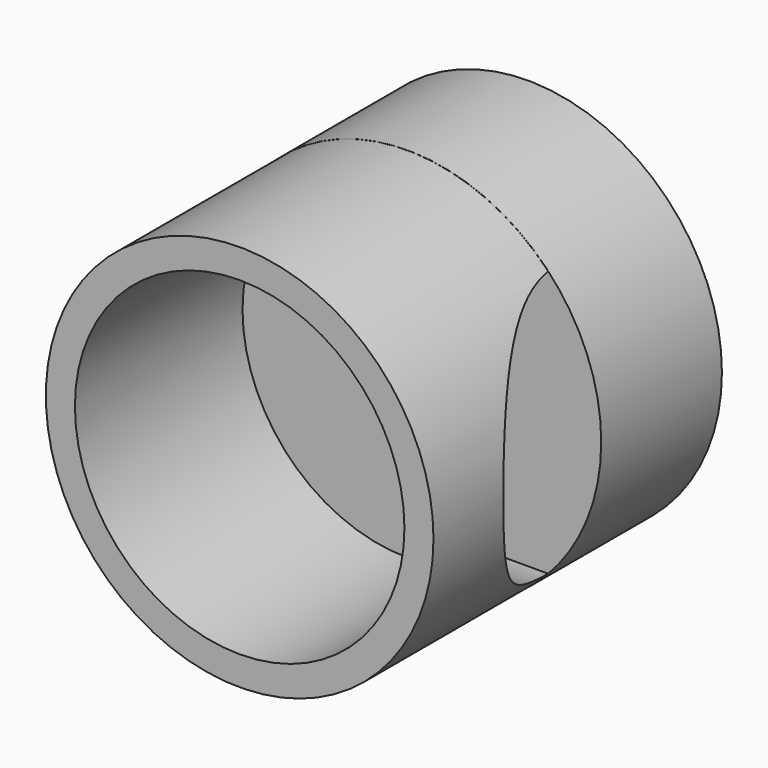
from build123d import *

# Parameters (mm, degrees)
F0_R     = 23.495605
F1_DEPTH = 25.4
F2_R     = 19.972479
F3_DEPTH = 27.178
F4_R     = 16.198988
F5_DEPTH = 37.846
F6_R     = 23.51123
F7_DEPTH = 18.288


with BuildPart() as f1:
    # F0 (on Front) → F1 (new body)
    with BuildSketch(Plane.XZ):
        Circle(F0_R)
    extrude(amount=F1_DEPTH)

    # F2 (on Front) → F3 (cut)
    with BuildSketch(Plane.XZ):
        Circle(F2_R)
    extrude(amount=F3_DEPTH, mode=Mode.SUBTRACT)

    # F4 (on Right) → F5 (cut)
    with BuildSketch(Plane.YZ):
        with Locations((1.37669, 0)):
            Circle(F4_R)
    extrude(amount=F5_DEPTH, mode=Mode.SUBTRACT)

    # F6 (on Front) → F7 (join)
    with BuildSketch(Plane.XZ):
        Circle(F6_R)
    extrude(amount=-F7_DEPTH)


solid = f1.part
